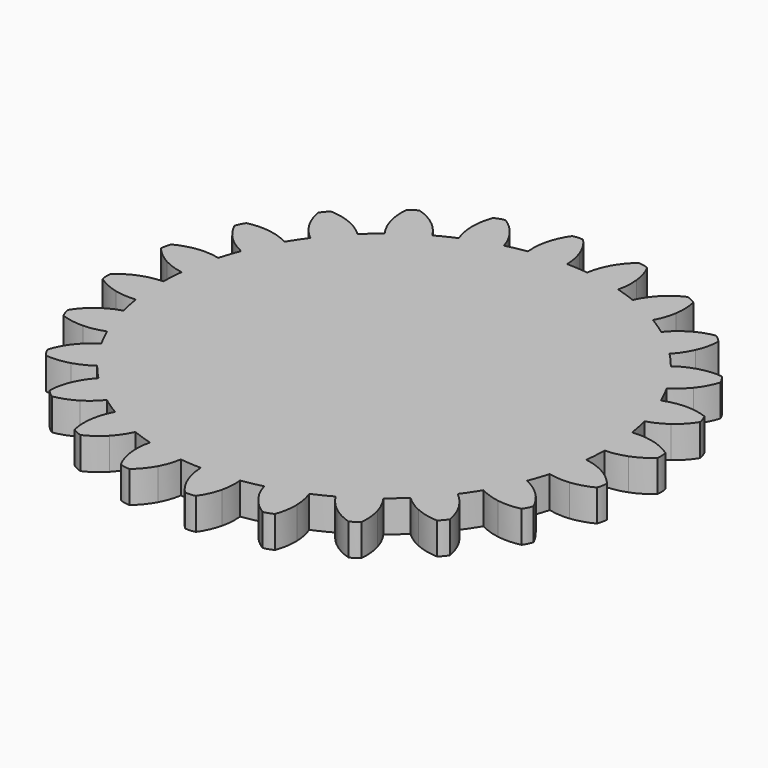
from build123d import *

# Parameters (mm, degrees)
F1_DEPTH = 3
F2_COUNT = 24


with BuildPart() as f1:
    # F0 (on Top) → F1 (new body)
    with BuildSketch(Plane.XY):
        with BuildLine():
            ThreePointArc((-3.1415961046, 20.9153741041), (-13.7999591011, -16.0275896131), (21.15, 0))
            ThreePointArc((21.15, 0), (15.090712805, 14.8186668441), (0.3847151738, 21.1465007563))
            ThreePointArc((0.3847151738, 21.1465007563), (-1.3832761832, 21.1047162265), (-3.1415961046, 20.9153741041))
        make_face()
        with BuildLine():
            ThreePointArc((-3.1415961046, 20.9153741041), (-1.3832761832, 21.1047162265), (0.3847151738, 21.1465007563))
            ThreePointArc((0.3847151738, 21.1465007563), (0.2769151212, 22.1399028374), (0, 23.1))
            ThreePointArc((0, 23.1), (-0.4843610565, 24.073154933), (-1.1432167962, 24.9377619366))
            ThreePointArc((-1.1432167962, 24.9377619366), (-1.6352335513, 24.9488428142), (-2.12159469, 24.8736356615))
            ThreePointArc((-2.12159469, 24.8736356615), (-2.6619599676, 23.9304275597), (-3.0151550403, 22.9023762977))
            ThreePointArc((-3.0151550403, 22.9023762977), (-3.1643832874, 21.9143482231), (-3.1415961046, 20.9153741041))
        make_face()
    extrude(amount=F1_DEPTH)

    # F2: F1 ×24 about axis
    f2_axis = Axis((0, 0, 0), (0, 0, -1))


with BuildPart() as f1_1:
    add(f1.part)
    for i in range(1, F2_COUNT):
        add(f1.part.rotate(f2_axis, i * 360 / F2_COUNT))


solid = f1_1.part
